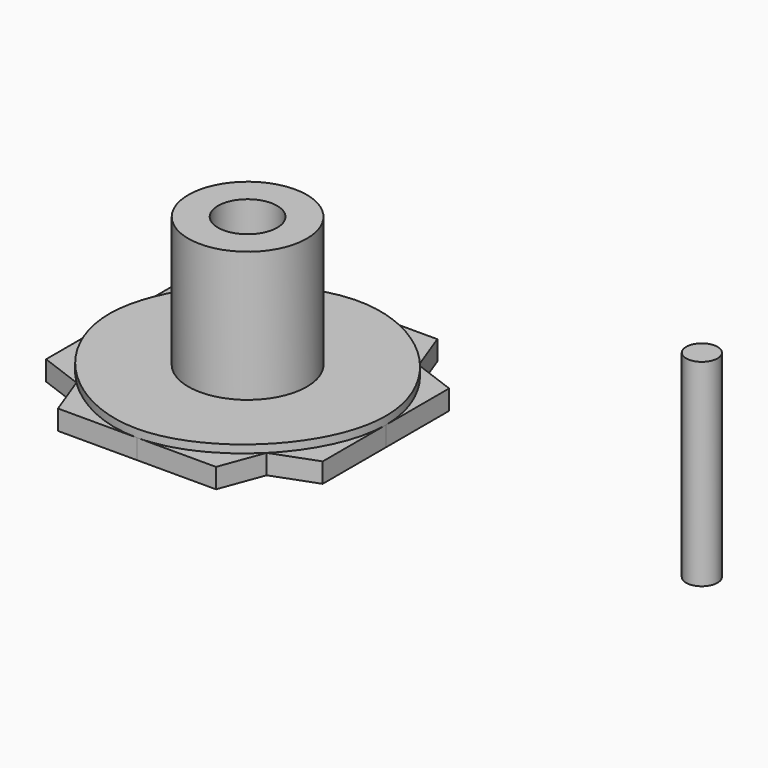
from build123d import *

# Parameters (mm, degrees)
F1_DEPTH = 5
F0_R     = 15
F2_DEPTH = 7
F0_R_2   = 7.5
F3_DEPTH = 40
F4_DEPTH = 3
F0_R_3   = 3.973
F5_DEPTH = 50


with BuildPart() as f1:
    # F0 (on Top) → F1 (new body)
    with BuildSketch(Plane.XY):
        with BuildLine():
            Line((-24.3566787988, 40.11987683), (-24.3566787988, 20.11987683))
            add(Edge.make_bspline(
                [(-24.3566787988, 20.11987683), (-24.3566787988, 28.86987683), (-19.9816787988, 37.61987683), (-13.4191787988, 44.18237683)],
                knots=[0, 0, 0, 0, 0.125, 0.125, 0.125, 0.125], degree=3))
            Line((-13.4191787988, 44.18237683), (-24.3566787988, 40.11987683))
        make_face()
    extrude(amount=F1_DEPTH)


with BuildPart() as f1b:
    # F0 (on Top) → F1, piece 2 (new body)
    with BuildSketch(Plane.XY):
        with BuildLine():
            Line((-9.3566787988, 55.11987683), (-13.4191787988, 44.18237683))
            add(Edge.make_bspline(
                [(-13.4191787988, 44.18237683), (-6.8566787988, 50.74487683), (1.8933212012, 55.11987683), (10.6433212012, 55.11987683)],
                knots=[0.125, 0.125, 0.125, 0.125, 0.25, 0.25, 0.25, 0.25], degree=3))
            Line((10.6433212012, 55.11987683), (-9.3566787988, 55.11987683))
        make_face()
    extrude(amount=F1_DEPTH)


with BuildPart() as f1c:
    # F0 (on Top) → F1, piece 3 (new body)
    with BuildSketch(Plane.XY):
        with BuildLine():
            Line((30.6433212012, 55.11987683), (10.6433212012, 55.11987683))
            add(Edge.make_bspline(
                [(10.6433212012, 55.11987683), (19.3933212012, 55.11987683), (28.1433212012, 50.74487683), (34.7058212012, 44.18237683)],
                knots=[0.25, 0.25, 0.25, 0.25, 0.375, 0.375, 0.375, 0.375], degree=3))
            Line((34.7058212012, 44.18237683), (30.6433212012, 55.11987683))
        make_face()
    extrude(amount=F1_DEPTH)


with BuildPart() as f1d:
    # F0 (on Top) → F1, piece 4 (new body)
    with BuildSketch(Plane.XY):
        with BuildLine():
            Line((45.6433212012, 40.11987683), (34.7058212012, 44.18237683))
            add(Edge.make_bspline(
                [(34.7058212012, 44.18237683), (41.2683212012, 37.61987683), (45.6433212012, 28.86987683), (45.6433212012, 20.11987683)],
                knots=[0.375, 0.375, 0.375, 0.375, 0.5, 0.5, 0.5, 0.5], degree=3))
            Line((45.6433212012, 20.11987683), (45.6433212012, 40.11987683))
        make_face()
    extrude(amount=F1_DEPTH)


with BuildPart() as f1e:
    # F0 (on Top) → F1, piece 5 (new body)
    with BuildSketch(Plane.XY):
        with BuildLine():
            add(Edge.make_bspline(
                [(45.6433212012, 20.11987683), (45.6433212012, 11.36987683), (41.2683212012, 2.61987683), (34.7058212012, -3.94262317)],
                knots=[0.5, 0.5, 0.5, 0.5, 0.625, 0.625, 0.625, 0.625], degree=3))
            Line((34.7058212012, -3.94262317), (45.6433212012, 0.11987683))
            Line((45.6433212012, 0.11987683), (45.6433212012, 20.11987683))
        make_face()
    extrude(amount=F1_DEPTH)


with BuildPart() as f1f:
    # F0 (on Top) → F1, piece 6 (new body)
    with BuildSketch(Plane.XY):
        with BuildLine():
            add(Edge.make_bspline(
                [(34.7058212012, -3.94262317), (28.1433212012, -10.50512317), (19.3933212012, -14.88012317), (10.6433212012, -14.88012317)],
                knots=[0.625, 0.625, 0.625, 0.625, 0.75, 0.75, 0.75, 0.75], degree=3))
            Line((10.6433212012, -14.88012317), (30.6433212012, -14.88012317))
            Line((30.6433212012, -14.88012317), (34.7058212012, -3.94262317))
        make_face()
    extrude(amount=F1_DEPTH)


with BuildPart() as f1g:
    # F0 (on Top) → F1, piece 7 (new body)
    with BuildSketch(Plane.XY):
        with BuildLine():
            add(Edge.make_bspline(
                [(10.6433212012, -14.88012317), (1.8933212012, -14.88012317), (-6.8566787988, -10.50512317), (-13.4191787988, -3.94262317)],
                knots=[0.75, 0.75, 0.75, 0.75, 0.875, 0.875, 0.875, 0.875], degree=3))
            Line((-13.4191787988, -3.94262317), (-9.3566787988, -14.88012317))
            Line((-9.3566787988, -14.88012317), (10.6433212012, -14.88012317))
        make_face()
    extrude(amount=F1_DEPTH)


with BuildPart() as f1h:
    # F0 (on Top) → F1, piece 8 (new body)
    with BuildSketch(Plane.XY):
        with BuildLine():
            add(Edge.make_bspline(
                [(-13.4191787988, -3.94262317), (-19.9816787988, 2.61987683), (-24.3566787988, 11.36987683), (-24.3566787988, 20.11987683)],
                knots=[0.875, 0.875, 0.875, 0.875, 1, 1, 1, 1], degree=3))
            Line((-24.3566787988, 20.11987683), (-24.3566787988, 0.11987683))
            Line((-24.3566787988, 0.11987683), (-13.4191787988, -3.94262317))
        make_face()
    extrude(amount=F1_DEPTH)


with BuildPart() as f2:
    # F0 (on Top) → F2 (new body)
    with BuildSketch(Plane.XY):
        with BuildLine():
            add(Edge.make_bspline(
                [(-24.3566787988, 20.11987683), (-24.3566787988, 28.86987683), (-19.9816787988, 37.61987683), (-13.4191787988, 44.18237683)],
                knots=[0, 0, 0, 0, 0.125, 0.125, 0.125, 0.125], degree=3))
            add(Edge.make_bspline(
                [(-13.4191787988, -3.94262317), (-19.9816787988, 2.61987683), (-24.3566787988, 11.36987683), (-24.3566787988, 20.11987683)],
                knots=[0.875, 0.875, 0.875, 0.875, 1, 1, 1, 1], degree=3))
            add(Edge.make_bspline(
                [(10.6433212012, -14.88012317), (1.8933212012, -14.88012317), (-6.8566787988, -10.50512317), (-13.4191787988, -3.94262317)],
                knots=[0.75, 0.75, 0.75, 0.75, 0.875, 0.875, 0.875, 0.875], degree=3))
            add(Edge.make_bspline(
                [(34.7058212012, -3.94262317), (28.1433212012, -10.50512317), (19.3933212012, -14.88012317), (10.6433212012, -14.88012317)],
                knots=[0.625, 0.625, 0.625, 0.625, 0.75, 0.75, 0.75, 0.75], degree=3))
            add(Edge.make_bspline(
                [(45.6433212012, 20.11987683), (45.6433212012, 11.36987683), (41.2683212012, 2.61987683), (34.7058212012, -3.94262317)],
                knots=[0.5, 0.5, 0.5, 0.5, 0.625, 0.625, 0.625, 0.625], degree=3))
            add(Edge.make_bspline(
                [(34.7058212012, 44.18237683), (41.2683212012, 37.61987683), (45.6433212012, 28.86987683), (45.6433212012, 20.11987683)],
                knots=[0.375, 0.375, 0.375, 0.375, 0.5, 0.5, 0.5, 0.5], degree=3))
            add(Edge.make_bspline(
                [(10.6433212012, 55.11987683), (19.3933212012, 55.11987683), (28.1433212012, 50.74487683), (34.7058212012, 44.18237683)],
                knots=[0.25, 0.25, 0.25, 0.25, 0.375, 0.375, 0.375, 0.375], degree=3))
            add(Edge.make_bspline(
                [(-13.4191787988, 44.18237683), (-6.8566787988, 50.74487683), (1.8933212012, 55.11987683), (10.6433212012, 55.11987683)],
                knots=[0.125, 0.125, 0.125, 0.125, 0.25, 0.25, 0.25, 0.25], degree=3))
        make_face()
        with Locations((10.6433212012, 20.11987683)):
            Circle(F0_R, mode=Mode.SUBTRACT)
    extrude(amount=F2_DEPTH)

    # F0 (on Top) → F3 (join)
    with BuildSketch(Plane.XY):
        with Locations((10.6433212012, 20.11987683)):
            Circle(F0_R)
        with Locations((10.6433212012, 20.11987683)):
            Circle(F0_R_2, mode=Mode.SUBTRACT)
    extrude(amount=F3_DEPTH)

    # F0 (on Top) → F4 (join)
    with BuildSketch(Plane.XY):
        with Locations((10.6433212012, 20.11987683)):
            Circle(F0_R_2)
        with BuildLine():
            ThreePointArc((7.1077872953, 23.655410736), (8.3081566414, 24.5410764951), (9.7163827591, 25.0332041267))
            Line((9.7163827591, 25.0332041267), (7.4613406859, 23.3018573454))
            Line((7.4613406859, 23.3018573454), (7.8148940765, 22.9483039548))
            Line((7.8148940765, 22.9483039548), (10.6433212012, 25.11987683))
            ThreePointArc((10.6433212012, 25.11987683), (12.11837077, 24.8973477896), (13.4621237927, 24.2495683379))
            Line((13.4621237927, 24.2495683379), (10.6433212012, 24.61987683))
            Line((10.6433212012, 24.61987683), (10.6433212012, 24.11987683))
            Line((10.6433212012, 24.11987683), (14.1788551071, 23.655410736))
            ThreePointArc((14.1788551071, 23.655410736), (15.0645208663, 22.4550413898), (15.5566484979, 21.0468152722))
            Line((15.5566484979, 21.0468152722), (13.8253017165, 23.3018573454))
            Line((13.8253017165, 23.3018573454), (13.471748326, 22.9483039548))
            Line((13.471748326, 22.9483039548), (15.6433212012, 20.11987683))
            ThreePointArc((15.6433212012, 20.11987683), (15.4207921608, 18.6448272613), (14.7730127091, 17.3010742385))
            Line((14.7730127091, 17.3010742385), (15.1433212012, 20.11987683))
            Line((15.1433212012, 20.11987683), (14.6433212012, 20.11987683))
            Line((14.6433212012, 20.11987683), (14.1788551071, 16.5843429241))
            ThreePointArc((14.1788551071, 16.5843429241), (12.978485761, 15.6986771649), (11.5702596433, 15.2065495333))
            Line((11.5702596433, 15.2065495333), (13.8253017165, 16.9378963147))
            Line((13.8253017165, 16.9378963147), (13.471748326, 17.2914497053))
            Line((13.471748326, 17.2914497053), (10.6433212012, 15.11987683))
            ThreePointArc((10.6433212012, 15.11987683), (9.1682716324, 15.3424058705), (7.8245186097, 15.9901853222))
            Line((7.8245186097, 15.9901853222), (10.6433212012, 15.61987683))
            Line((10.6433212012, 15.61987683), (10.6433212012, 16.11987683))
            Line((10.6433212012, 16.11987683), (7.1077872953, 16.5843429241))
            ThreePointArc((7.1077872953, 16.5843429241), (6.2221215361, 17.7847122703), (5.7299939045, 19.1929383879))
            Line((5.7299939045, 19.1929383879), (7.4613406859, 16.9378963147))
            Line((7.4613406859, 16.9378963147), (7.6381173812, 17.11467301))
            Line((7.6381173812, 17.11467301), (7.8148940765, 17.2914497053))
            Line((7.8148940765, 17.2914497053), (5.6433212012, 20.11987683))
            ThreePointArc((5.6433212012, 20.11987683), (5.8658502416, 21.5949263988), (6.5136296933, 22.9386794215))
            Line((6.5136296933, 22.9386794215), (6.1433212012, 20.11987683))
            Line((6.1433212012, 20.11987683), (6.6433212012, 20.11987683))
            Line((6.6433212012, 20.11987683), (7.1077872953, 23.655410736))
        make_face(mode=Mode.SUBTRACT)
    extrude(amount=F4_DEPTH)


with BuildPart() as f5:
    # F0 (on Top) → F5 (new body)
    with BuildSketch(Plane.XY):
        with Locations((129.0643662214, 15.7872345299)):
            Circle(F0_R_3)
    extrude(amount=F5_DEPTH)


solid = Compound([f1.part, f1b.part, f1c.part, f1d.part, f1e.part, f1f.part, f1g.part, f1h.part, f2.part, f5.part])
